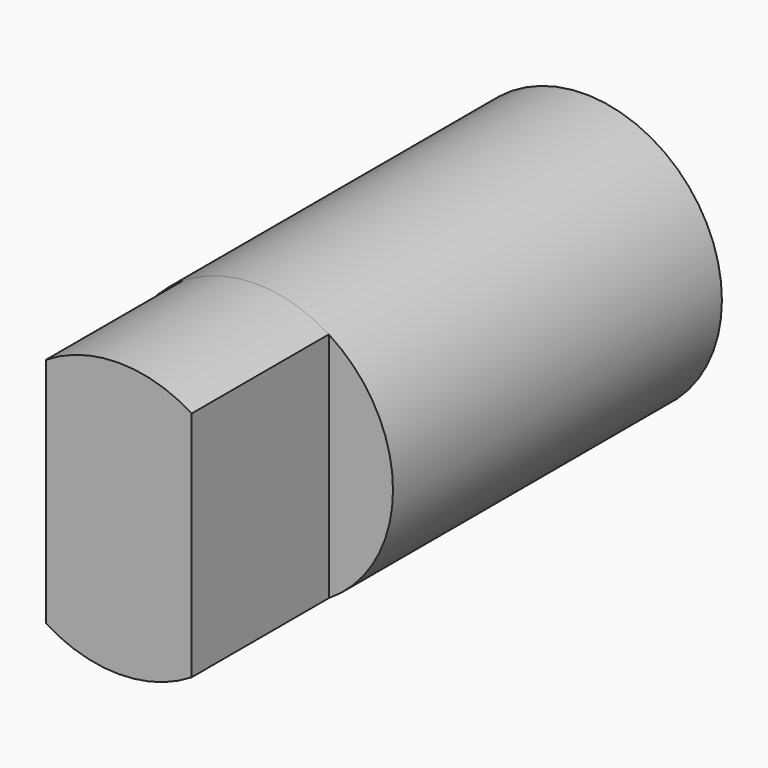
from build123d import *

# Parameters (mm, degrees)
F0_R     = 8
F1_DEPTH = 24
F3_DEPTH = 10


with BuildPart() as f1:
    # F0 (on Front) → F1 (new body)
    with BuildSketch(Plane.XZ):
        Circle(F0_R)
    extrude(amount=F1_DEPTH)

    # F2 (on face) → F3 (join)
    with BuildSketch(Plane.XZ.offset(24)):
        with BuildLine():
            Line((-4.25, 0), (0, 0))
            Line((0, 0), (4.25, 0))
            Line((4.25, 0), (4.25, 6.777721))
            ThreePointArc((4.25, 6.777721), (0, 8), (-4.25, 6.777721))
            Line((-4.25, 6.777721), (-4.25, 0))
        make_face()
        with BuildLine():
            Line((4.25, 0), (0, 0))
            Line((0, 0), (-4.25, 0))
            Line((-4.25, 0), (-4.25, -6.777721))
            ThreePointArc((-4.25, -6.777721), (0, -8), (4.25, -6.777721))
            Line((4.25, -6.777721), (4.25, 0))
        make_face()
    extrude(amount=F3_DEPTH)


solid = f1.part
